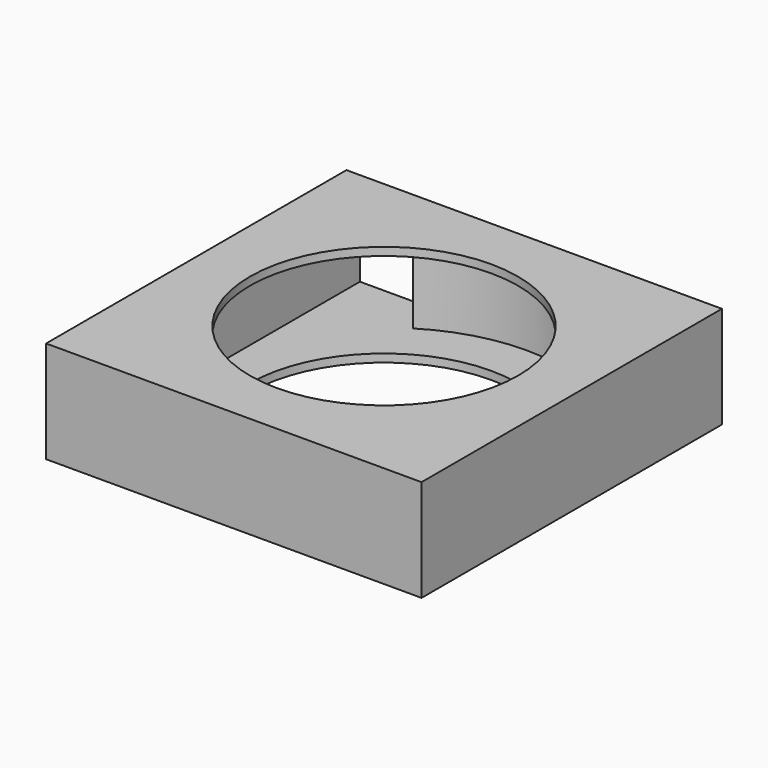
from build123d import *

# Parameters (mm, degrees)
F0_R     = 50
F1_DEPTH = 3
F2_DEPTH = 35
F3_DEPTH = 32
F4_DEPTH = 84.6
F5_DEPTH = 25


with BuildPart() as f1:
    # F0 (on Top) → F1 (new body)
    with BuildSketch(Plane.XY):
        with BuildLine():
            ThreePointArc((65, 1.5318503138), (31.467850574, 58.406927283), (-34.5315193925, 56.600663343))
            ThreePointArc((-34.5315193925, 56.600663343), (-56.5003016989, 33.6677478107), (-64.98194699, 3.0637006275))
            Line((-64.98194699, 3.0637006275), (-64.98194699, 0))
            ThreePointArc((-64.98194699, 0), (0.7659783442, -63.463636277), (65, 1.5318503138))
        make_face()
        Circle(F0_R, mode=Mode.SUBTRACT)
        Circle(F0_R)
        with BuildLine():
            Line((-70, -70), (70, -70))
            Line((70, -70), (70, 70))
            Line((70, 70), (-34.5315193925, 70))
            Line((-34.5315193925, 70), (-34.5315193925, 56.600663343))
            ThreePointArc((-34.5315193925, 56.600663343), (31.467850574, 58.406927283), (65, 1.5318503138))
            ThreePointArc((65, 1.5318503138), (0.7659783442, -63.463636277), (-64.98194699, 0))
            ThreePointArc((-64.98194699, 0), (-65, 1.5318503138), (-64.98194699, 3.0637006275))
            Line((-64.98194699, 3.0637006275), (-64.98194699, 70))
            Line((-64.98194699, 70), (-70, 70))
            Line((-70, 70), (-70, -70))
        make_face()
        with BuildLine():
            Line((-34.5315193925, 56.600663343), (-34.5315193925, 70))
            Line((-34.5315193925, 70), (-64.98194699, 70))
            Line((-64.98194699, 70), (-64.98194699, 3.0637006275))
            ThreePointArc((-64.98194699, 3.0637006275), (-56.5003016989, 33.6677478107), (-34.5315193925, 56.600663343))
        make_face()
        with BuildLine():
            Line((-64.98194699, 0), (-64.98194699, 3.0637006275))
            ThreePointArc((-64.98194699, 3.0637006275), (-65, 1.5318503138), (-64.98194699, 0))
        make_face()
    extrude(amount=-F1_DEPTH)

    # F2 (add): a face of the model
    f2_faces = [f1.faces().sort_by_distance(p)[0] for p in [
        (0, 0, 0),
    ]]
    extrude(f2_faces, amount=F2_DEPTH)

    # F0 (on Top) → F3 (cut)
    with BuildSketch(Plane.XY):
        with BuildLine():
            ThreePointArc((65, 1.5318503138), (31.467850574, 58.406927283), (-34.5315193925, 56.600663343))
            ThreePointArc((-34.5315193925, 56.600663343), (-56.5003016989, 33.6677478107), (-64.98194699, 3.0637006275))
            Line((-64.98194699, 3.0637006275), (-64.98194699, 0))
            ThreePointArc((-64.98194699, 0), (0.7659783442, -63.463636277), (65, 1.5318503138))
        make_face()
        Circle(F0_R, mode=Mode.SUBTRACT)
        Circle(F0_R)
        with BuildLine():
            Line((-34.5315193925, 56.600663343), (-34.5315193925, 70))
            Line((-34.5315193925, 70), (-64.98194699, 70))
            Line((-64.98194699, 70), (-64.98194699, 3.0637006275))
            ThreePointArc((-64.98194699, 3.0637006275), (-56.5003016989, 33.6677478107), (-34.5315193925, 56.600663343))
        make_face()
    extrude(amount=F3_DEPTH, mode=Mode.SUBTRACT)

    # F0 (on Top) → F4 (cut)
    with BuildSketch(Plane.XY):
        Circle(F0_R)
    extrude(amount=F4_DEPTH, mode=Mode.SUBTRACT)

    # F0 (on Top) → F5 (cut)
    with BuildSketch(Plane.XY):
        Circle(F0_R)
    extrude(amount=-F5_DEPTH, mode=Mode.SUBTRACT)


solid = f1.part
